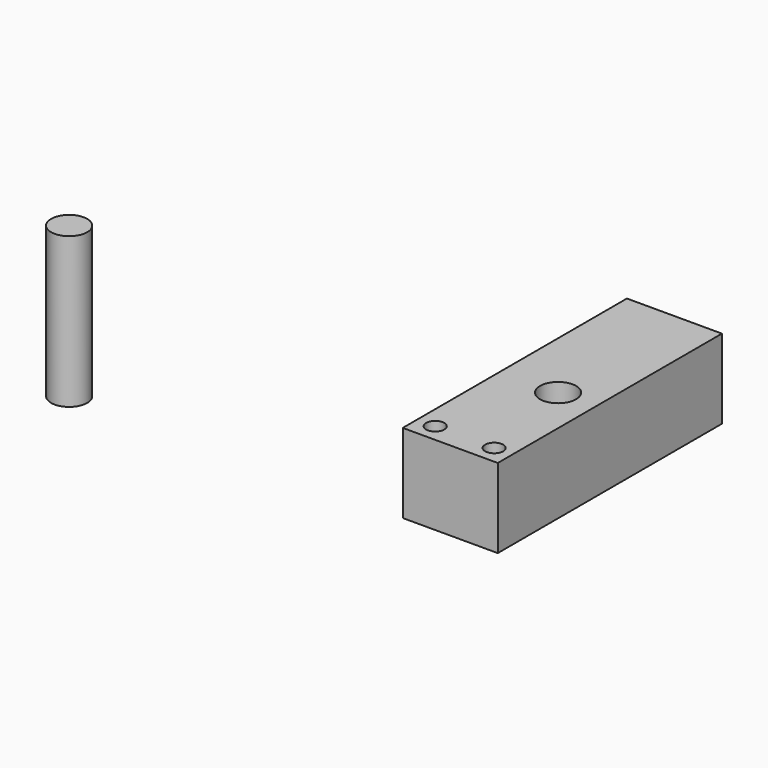
from build123d import *

# Parameters (mm, degrees)
F0_W     = 15.8
F0_H     = 46.6
F1_DEPTH = 13.2
F2_R     = 3
F2_R_2   = 1.5
F3_DEPTH = 25
F4_R     = 3
F5_DEPTH = 25


with BuildPart() as f1:
    # F0 (on Top) → F1 (new body)
    with BuildSketch(Plane.XY):
        Rectangle(F0_W, F0_H)
    extrude(amount=F1_DEPTH)

    # F2 (on face) → F3 (cut)
    with BuildSketch(Plane.XY.offset(13.2)):
        with Locations((1.65, -2.95)):
            Circle(F2_R)
        with Locations((-4.9, -20.3)):
            Circle(F2_R_2)
        with Locations((4.9, -20.3)):
            Circle(F2_R_2)
    extrude(amount=-F3_DEPTH, mode=Mode.SUBTRACT)


with BuildPart() as f5:
    # F4 (on Top) → F5 (new body)
    with BuildSketch(Plane.XY):
        with Locations((-63.119434, -23.621172)):
            Circle(F4_R)
    extrude(amount=F5_DEPTH)


solid = Compound([f1.part, f5.part])
